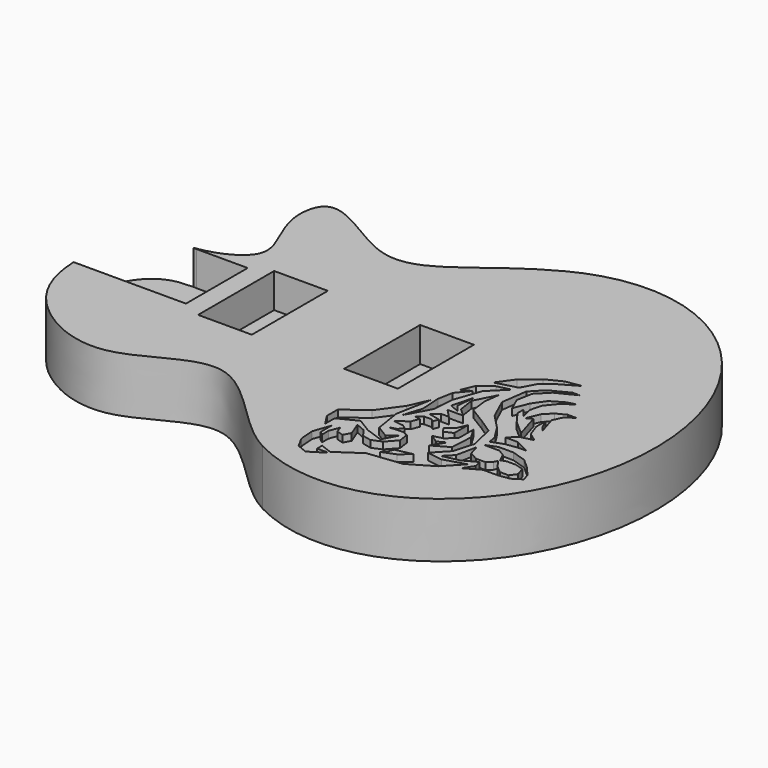
from build123d import *

# Parameters (mm, degrees)
F1_DEPTH = 40
F3_DEPTH = 5
F4_W     = 39
F4_H     = 69
F5_DEPTH = 25


with BuildPart() as f1:
    # F0 (on Top) → F1 (new body)
    with BuildSketch(Plane.XY):
        with BuildLine():
            add(Edge.make_bspline(
                [(0, -137.5042097631), (-27.2200099163, -123.2913356514), (-72.9901697755, -50.0953003729), (-139.8948541252, -116.443946688), (-208.4679142214, -84.4071138839), (-223.9078953345, -50.2194288945), (-224.8711952378, -27.75)],
                knots=[0, 0, 0, 0, 0.2924746496, 0.5384186964, 0.7746502619, 1, 1, 1, 1], degree=3))
            add(Edge.make_bspline(
                [(0, -137.5042097631), (175.1288047622, -229.0165199871), (175.1288047622, 0), (175.1288047622, 229.0165199871), (0, 137.5042097631)],
                knots=[2.7305250206, 2.7305250206, 2.7305250206, 4.7123889804, 4.7123889804, 6.6942529401, 6.6942529401, 6.6942529401], degree=2, weights=[1, 0.547910463, 1, 0.547910463, 1]))
            add(Edge.make_bspline(
                [(0, 137.5042097631), (-45.2144299529, 113.8932445365), (-78.7561312436, 54.1925620488), (-156.6476132402, 134.2891977141), (-161.2160884095, 103.6471923605)],
                knots=[0, 0, 0, 0, 0.5613685829, 1, 1, 1, 1], degree=3))
            add(Edge.make_bspline(
                [(-161.2160884095, 103.6471923605), (-164.5636720634, 81.1940384276), (-127.7171165453, 44.9357725155), (-173.0092880771, 28.051536038), (-188.9870303383, 27.75)],
                knots=[0, 0, 0, 0, 0.5280261723, 1, 1, 1, 1], degree=3))
            add(Edge.make_bspline(
                [(-188.9870303383, 27.75), (-213.6611923874, 27.2843429038), (-226.0608815641, 0), (-224.8711952378, -27.75)],
                knots=[0, 0, 0, 0, 66.0902662314, 66.0902662314, 66.0902662314, 66.0902662314], degree=3))
        make_face()
    extrude(amount=-F1_DEPTH)

    # F2 (on Top) → F3 (cut)
    with BuildSketch(Plane.XY):
        Polygon((22.9594233751, -127.4976012395), (34.1477822512, -120.4807572067), (25.8575156331, -120.4807572067), (25.8575156331, -115.9014590085), (34.1477822512, -119.0784983337), (51.1539317667, -107.5417809188), (75.7620073855, -104.7254540026), (93.0768735707, -94.6066714823), (104.6003736556, -82.2938345373), (89.0973471105, -86.8509598076), (78.2040841877, -85.146766156), (87.9756845534, -74.7969634831), (92.170227319, -60.0645877421), (87.9756845534, -42.5639804453), (77.5931589305, -35.6882968917), (65.3433576226, -28.1261322089), (63.8495348394, -15.9831009805), (65.3433576226, -4.8595685512), (57.6025992632, -20.1082797721), (59.4508461654, -31.8806651048), (65.3433576226, -37.214808166), (53.964111954, -37.214808166), (59.7900301218, -43.3391258121), (53.9506748319, -43.3391258121), (49.1576530039, -47.6056300104), (57.6025992632, -49.5057795197), (56.0412960833, -53.5798932803), (54.2522668838, -51.8557820469), (48.5619269311, -51.8557820469), (44.3606562912, -55.114004761), (48.6762531846, -55.6935631884), (46.5069149883, -61.3543026982), (38.6555045843, -66.8426193297), (46.084302703, -67.840261756), (48.8944277167, -69.9179545045), (46.4614660338, -73.2085885444), (41.0120114684, -74.7969634831), (50.7963448763, -74.0806721151), (55.1985626039, -75.7677130129), (56.3214346766, -83.1927359104), (49.7731417418, -90.5037559569), (42.7796952426, -93.372348696), (36.3363176584, -91.8689779937), (32.3465205729, -86.3180831075), (25.4241637886, -83.3709537983), (29.3086394668, -93.372348696), (26.6097784042, -98.3365811408), (21.7955429107, -96.9815589488), (20.0791005045, -92.2017581761), (17.3224424943, -99.3443243206), (17.3224424943, -105.3472049534), (14.6865118295, -103.3047325909), (14.6865118295, -93.372348696), (10.3940467816, -105.6637950242), (11.2282587215, -116.3667403162), (15.5352246948, -124.3640370667), align=None)
        Polygon((65.7792910934, -97.6592712104), (56.362669915, -101.3950966299), (59.3735687435, -98.1537885964), (60.8370788395, -94.3082235754), (72.8951655328, -91.6993506253), align=None, mode=Mode.SUBTRACT)
        Polygon((74.6885122869, -56.9916963577), (68.6417333782, -59.7583800554), (65.9790486097, -55.8996498585), (71.664097082, -51.9767293115), (74.6885122869, -44.7888225977), align=None, mode=Mode.SUBTRACT)
        Polygon((73.2040390916, -71.5602739641), (66.9175386429, -67.6794312894), (74.3879787624, -65.8116303384), (80.5399604142, -59.7583800554), (80.5399604142, -47.061894089), (85.3905491531, -55.1389101893), (84.5211036503, -71.3276229799), (73.1121442894, -77.8577978831), (78.8666196167, -68.5362368822), align=None, mode=Mode.SUBTRACT)
        Polygon((92.414598912, -77.4909257889), (86.2087495625, -83.7956108153), (98.5360778868, -81.0903683305), (108.1945560873, -75.8051835001), (109.4679646194, -81.0482874513), (104.7243140638, -88.2315225899), (115.6465224922, -82.1537226439), (126.4751143754, -82.1537226439), (134.4945691526, -80.9902399778), (141.1010734737, -76.7668560147), (139.3760703504, -71.5329907835), (133.5525177419, -64.5660683513), (126.1135302484, -57.909514755), (115.6465224922, -54.6994134784), (105.1764972508, -54.6994134784), (96.9357304275, -57.909514755), (108.1282906234, -57.909514755), (113.063659519, -60.8973167837), (115.7975681126, -66.9281594455), (119.827631861, -65.6276457012), (126.0732598603, -65.6276457012), (132.3394291103, -67.3163309693), (134.4513855875, -73.8923549652), (131.191778928, -78.2802030444), (124.8661093414, -78.2802030444), (119.5506416261, -73.8923549652), (115.4585443437, -68.1161209941), (114.1568385065, -70.9590502083), (110.9550334513, -73.8923549652), (104.0022708476, -73.8923549652), (97.8413684641, -70.6622694568), (95.4773463309, -62.6200288534), align=None)
        Polygon((96.0912443697, -47.254184261), (96.9357304275, -52.8679303825), (105.535659939, -49.7862864286), (114.1856350005, -48.5190507025), (120.3426532447, -48.5190507025), (109.7476743162, -43.1590247899), (100.9050793946, -43.1590247899), (106.1630404577, -37.8173243204), (115.6465224922, -35.5106331408), (109.2439182103, -30.8140302077), (106.0922555625, -21.7937608249), (106.0922555625, -13.3555652574), (108.9464835823, -19.8275293224), (112.1880598366, -24.0310223307), (107.9538874328, -10.3088244796), (110.9550334513, -3.8019642234), (116.9626154006, 0.6864648312), (110.9550334513, 0.6864648312), (104.0184609592, -2.8490200639), (98.6673307995, -8.2853734609), (94.7203598917, -17.6658509299), (98.8356135786, -15.4921123758), (104.3260805309, -33.5492915474), (93.8518159091, -24.3155235657), (87.4538458884, -15.6342471018), (87.4538458884, -10.2818384767), (92.436734587, -16.3498790935), (90.4285976456, -8.0938408449), (92.5767831504, 0.1872945577), (99.1096757352, 8.3156302571), (107.3196418583, 13.7528590858), (100.8993116123, 12.1912260174), (91.6389636695, 6.7999884486), (85.5696462095, -1.9547920674), (81.2557376921, -12.7631416544), (77.0082809031, -3.1293667853), (79.1442878544, 8.1794895232), (87.389793247, 16.5245756507), (101.3527177274, 23.5331319273), (96.2063111365, 23.5331319273), (82.8687660396, 16.7045742273), (74.7152902186, 8.2705207169), (72.087418288, -10.4979230091), (79.1642330587, -26.0418541729), (89.3863774836, -36.6713870317), align=None)
        Polygon((53.1789511442, 5.1950793713), (68.6417333782, 9.3272104859), (73.7890414894, 19.0624445677), (82.8696601093, 26.2436009943), (95.2954702079, 33.3115458488), (83.9575745964, 31.5315131835), (72.8460885584, 25.9475782514), (61.2793639302, 16.4443291724), align=None)
        Polygon((55.0340488553, -6.940562278), (66.9175386429, 4.9312189221), (57.2109718628, 2.570266279), (48.2054315507, -4.1732061654), (44.3363464425, -13.3685781435), (50.5677908659, -10.2818384767), (43.247718364, -19.1737329587), (41.1949631111, -30.0418222115), (42.1029962599, -44.7254143655), (37.7569701523, -58.6232468486), (47.3649948835, -41.0746363923), (48.3538545668, -26.0418541729), align=None)
        Polygon((52.2815283177, -31.8675438403), (59.536959976, -34.9203711376), (55.1041327417, -29.8327815253), (56.46796152, -15.9051464871), align=None)
        Polygon((34.2561842862, -59.1370345195), (39.0891749412, -33.5492915474), (32.7664241195, -47.9145217687), (20.8764886484, -64.2379708588), (5.1067112945, -75.7296346128), (5.1067112945, -85.6374762952), (10.4303332046, -93.8961170614), (10.4303332046, -85.2559544146), (23.9450181252, -78.4810947762), (34.2759639025, -84.8586931825), (46.9191558659, -89.3239714205), (52.4992309511, -78.5805583), (46.0734094026, -83.7705999306), (37.270434483, -78.3362631305), align=None)
    extrude(amount=-F3_DEPTH, mode=Mode.SUBTRACT)

    # F4 (on Top) → F5 (cut)
    with BuildSketch(Plane.XY):
        Polygon((-250.7214844227, 35.949703306), (-233.4897816181, -28), (-143.2970278114, -28), (-143.2970278114, 28), (-180.5922538042, 28), align=None)
        with Locations((-109.7970278114, 0)):
            Rectangle(F4_W, F4_H)
        with Locations((-3.7970278114, 0)):
            Rectangle(F4_W, F4_H)
    extrude(amount=-F5_DEPTH, mode=Mode.SUBTRACT)


solid = f1.part
